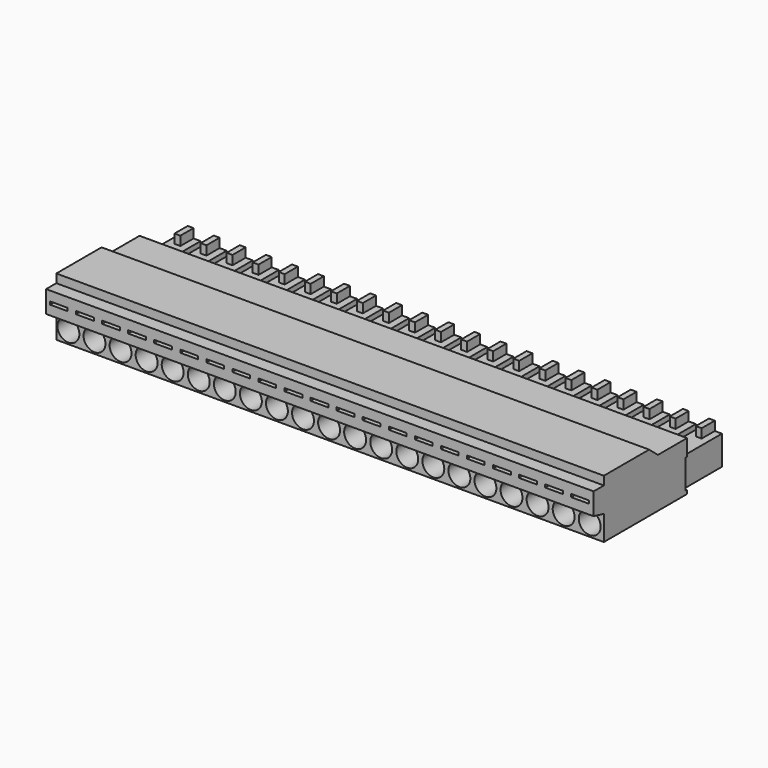
from build123d import *

# Parameters (mm, degrees)
F0_W      = 6.5
F0_H      = 4
F1_DEPTH  = 75
F2_R      = 1.5
F3_DEPTH  = 10
F4_R      = 0.5
F5_DEPTH  = 10
F6_W      = 0.82
F6_H      = 4
F6_W_2    = 0.428879
F7_DEPTH  = 6.75
F9_DEPTH  = 2.25
F10_W     = 2.429513
F10_H     = 0.406176
F11_DEPTH = 5


with BuildPart() as f1:
    # F0 (on Right) → F1 (new body)
    with BuildSketch(Plane.YZ):
        Polygon((-14.25, 0), (0, 0), (0, 0.5), (0, 4.5), (0, 6.75), (-5, 6.75), (-6.5, 8), (-14.25, 8), (-14.25, 6.825), (-16, 6.825), (-16, 3.825), (-14.25, 3.413829), align=None)
        with Locations((3.25, 2.5)):
            Rectangle(F0_W, F0_H)
    extrude(amount=F1_DEPTH)

    # F2 (on face) → F3 (cut)
    with BuildSketch(Plane.XZ.offset(14.25)):
        with Locations((1.660393, 1.706915)):
            Circle(F2_R)
        with Locations((5.230393, 1.706915)):
            Circle(F2_R)
        with Locations((8.800393, 1.706915)):
            Circle(F2_R)
        with Locations((12.370393, 1.706915)):
            Circle(F2_R)
        with Locations((15.940393, 1.706915)):
            Circle(F2_R)
        with Locations((19.510393, 1.706915)):
            Circle(F2_R)
        with Locations((23.080393, 1.706915)):
            Circle(F2_R)
        with Locations((26.650393, 1.706915)):
            Circle(F2_R)
        with Locations((30.220393, 1.706915)):
            Circle(F2_R)
        with Locations((33.790393, 1.706915)):
            Circle(F2_R)
        with Locations((37.360393, 1.706915)):
            Circle(F2_R)
        with Locations((40.930393, 1.706915)):
            Circle(F2_R)
        with Locations((44.500393, 1.706915)):
            Circle(F2_R)
        with Locations((48.070393, 1.706915)):
            Circle(F2_R)
        with Locations((51.640393, 1.706915)):
            Circle(F2_R)
        with Locations((55.210393, 1.706915)):
            Circle(F2_R)
        with Locations((58.780393, 1.706915)):
            Circle(F2_R)
        with Locations((62.350393, 1.706915)):
            Circle(F2_R)
        with Locations((65.920393, 1.706915)):
            Circle(F2_R)
        with Locations((69.490393, 1.706915)):
            Circle(F2_R)
        with Locations((73.060393, 1.706915)):
            Circle(F2_R)
    extrude(amount=-F3_DEPTH, mode=Mode.SUBTRACT)

    # F4 (on face) → F5 (cut)
    with BuildSketch(Plane(origin=(0, 6.5, 0), x_dir=(-1, 0, 0), z_dir=(0, 1, 0))):
        with Locations((-73.196121, 2.5)):
            Circle(F4_R)
        with Locations((-69.626121, 2.5)):
            Circle(F4_R)
        with Locations((-66.056121, 2.5)):
            Circle(F4_R)
        with Locations((-62.486121, 2.5)):
            Circle(F4_R)
        with Locations((-58.916121, 2.5)):
            Circle(F4_R)
        with Locations((-55.346121, 2.5)):
            Circle(F4_R)
        with Locations((-51.776121, 2.5)):
            Circle(F4_R)
        with Locations((-48.206121, 2.5)):
            Circle(F4_R)
        with Locations((-44.636121, 2.5)):
            Circle(F4_R)
        with Locations((-41.066121, 2.5)):
            Circle(F4_R)
        with Locations((-37.496121, 2.5)):
            Circle(F4_R)
        with Locations((-33.926121, 2.5)):
            Circle(F4_R)
        with Locations((-30.356121, 2.5)):
            Circle(F4_R)
        with Locations((-26.786121, 2.5)):
            Circle(F4_R)
        with Locations((-23.216121, 2.5)):
            Circle(F4_R)
        with Locations((-19.646121, 2.5)):
            Circle(F4_R)
        with Locations((-16.076121, 2.5)):
            Circle(F4_R)
        with Locations((-12.506121, 2.5)):
            Circle(F4_R)
        with Locations((-8.936121, 2.5)):
            Circle(F4_R)
        with Locations((-5.366121, 2.5)):
            Circle(F4_R)
        with Locations((-1.796121, 2.5)):
            Circle(F4_R)
    extrude(amount=-F5_DEPTH, mode=Mode.SUBTRACT)

    # F6 (on face) → F7 (cut)
    with BuildSketch(Plane(origin=(0, 6.5, 0), x_dir=(-1, 0, 0), z_dir=(0, 1, 0))):
        with Locations((-71.411121, 2.5)):
            Rectangle(F6_W, F6_H)
        with BuildLine():
            Line((-74.372925, 0.5), (-72.085269, 0.5))
            ThreePointArc((-72.085269, 0.5), (-73.229097, 0.754257), (-74.372925, 0.5))
        make_face()
        with Locations((-67.841121, 2.5)):
            Rectangle(F6_W, F6_H)
        with BuildLine():
            Line((-70.802925, 0.5), (-68.515269, 0.5))
            ThreePointArc((-68.515269, 0.5), (-69.659097, 0.754257), (-70.802925, 0.5))
        make_face()
        with Locations((-64.271121, 2.5)):
            Rectangle(F6_W, F6_H)
        with BuildLine():
            Line((-67.232925, 0.5), (-64.945269, 0.5))
            ThreePointArc((-64.945269, 0.5), (-66.089097, 0.754257), (-67.232925, 0.5))
        make_face()
        with Locations((-60.701121, 2.5)):
            Rectangle(F6_W, F6_H)
        with BuildLine():
            Line((-63.662925, 0.5), (-61.375269, 0.5))
            ThreePointArc((-61.375269, 0.5), (-62.519097, 0.754257), (-63.662925, 0.5))
        make_face()
        with Locations((-57.131121, 2.5)):
            Rectangle(F6_W, F6_H)
        with BuildLine():
            Line((-60.092925, 0.5), (-57.805269, 0.5))
            ThreePointArc((-57.805269, 0.5), (-58.949097, 0.754257), (-60.092925, 0.5))
        make_face()
        with Locations((-53.561121, 2.5)):
            Rectangle(F6_W, F6_H)
        with BuildLine():
            Line((-56.522925, 0.5), (-54.235269, 0.5))
            ThreePointArc((-54.235269, 0.5), (-55.379097, 0.754257), (-56.522925, 0.5))
        make_face()
        with Locations((-49.991121, 2.5)):
            Rectangle(F6_W, F6_H)
        with BuildLine():
            Line((-52.952925, 0.5), (-50.665269, 0.5))
            ThreePointArc((-50.665269, 0.5), (-51.809097, 0.754257), (-52.952925, 0.5))
        make_face()
        with Locations((-46.421121, 2.5)):
            Rectangle(F6_W, F6_H)
        with BuildLine():
            Line((-49.382925, 0.5), (-47.095269, 0.5))
            ThreePointArc((-47.095269, 0.5), (-48.239097, 0.754257), (-49.382925, 0.5))
        make_face()
        with Locations((-42.851121, 2.5)):
            Rectangle(F6_W, F6_H)
        with BuildLine():
            Line((-45.812925, 0.5), (-43.525269, 0.5))
            ThreePointArc((-43.525269, 0.5), (-44.669097, 0.754257), (-45.812925, 0.5))
        make_face()
        with Locations((-39.281121, 2.5)):
            Rectangle(F6_W, F6_H)
        with BuildLine():
            Line((-42.242925, 0.5), (-39.955269, 0.5))
            ThreePointArc((-39.955269, 0.5), (-41.099097, 0.754257), (-42.242925, 0.5))
        make_face()
        with Locations((-35.711121, 2.5)):
            Rectangle(F6_W, F6_H)
        with BuildLine():
            Line((-38.672925, 0.5), (-36.385269, 0.5))
            ThreePointArc((-36.385269, 0.5), (-37.529097, 0.754257), (-38.672925, 0.5))
        make_face()
        with Locations((-32.141121, 2.5)):
            Rectangle(F6_W, F6_H)
        with BuildLine():
            Line((-35.102925, 0.5), (-32.815269, 0.5))
            ThreePointArc((-32.815269, 0.5), (-33.959097, 0.754257), (-35.102925, 0.5))
        make_face()
        with Locations((-28.571121, 2.5)):
            Rectangle(F6_W, F6_H)
        with BuildLine():
            Line((-31.532925, 0.5), (-29.245269, 0.5))
            ThreePointArc((-29.245269, 0.5), (-30.389097, 0.754257), (-31.532925, 0.5))
        make_face()
        with Locations((-25.001121, 2.5)):
            Rectangle(F6_W, F6_H)
        with BuildLine():
            Line((-27.962925, 0.5), (-25.675269, 0.5))
            ThreePointArc((-25.675269, 0.5), (-26.819097, 0.754257), (-27.962925, 0.5))
        make_face()
        with Locations((-21.431121, 2.5)):
            Rectangle(F6_W, F6_H)
        with BuildLine():
            Line((-24.392925, 0.5), (-22.105269, 0.5))
            ThreePointArc((-22.105269, 0.5), (-23.249097, 0.754257), (-24.392925, 0.5))
        make_face()
        with Locations((-17.861121, 2.5)):
            Rectangle(F6_W, F6_H)
        with BuildLine():
            Line((-20.822925, 0.5), (-18.535269, 0.5))
            ThreePointArc((-18.535269, 0.5), (-19.679097, 0.754257), (-20.822925, 0.5))
        make_face()
        with Locations((-14.291121, 2.5)):
            Rectangle(F6_W, F6_H)
        with BuildLine():
            Line((-17.252925, 0.5), (-14.965269, 0.5))
            ThreePointArc((-14.965269, 0.5), (-16.109097, 0.754257), (-17.252925, 0.5))
        make_face()
        with Locations((-10.721121, 2.5)):
            Rectangle(F6_W, F6_H)
        with BuildLine():
            Line((-13.682925, 0.5), (-11.395269, 0.5))
            ThreePointArc((-11.395269, 0.5), (-12.539097, 0.754257), (-13.682925, 0.5))
        make_face()
        with Locations((-7.151121, 2.5)):
            Rectangle(F6_W, F6_H)
        with BuildLine():
            Line((-10.112925, 0.5), (-7.825269, 0.5))
            ThreePointArc((-7.825269, 0.5), (-8.969097, 0.754257), (-10.112925, 0.5))
        make_face()
        with Locations((-3.581121, 2.5)):
            Rectangle(F6_W, F6_H)
        with BuildLine():
            Line((-6.542925, 0.5), (-4.255269, 0.5))
            ThreePointArc((-4.255269, 0.5), (-5.399097, 0.754257), (-6.542925, 0.5))
        make_face()
        with Locations((-0.011121, 2.5)):
            Rectangle(F6_W, F6_H)
        with BuildLine():
            Line((-2.972925, 0.5), (-0.685269, 0.5))
            ThreePointArc((-0.685269, 0.5), (-1.829097, 0.754257), (-2.972925, 0.5))
        make_face()
        with Locations((-74.785561, 2.5)):
            Rectangle(F6_W_2, F6_H)
    extrude(amount=-F7_DEPTH, mode=Mode.SUBTRACT)

    # F8 (on face) → F9 (join)
    with BuildSketch(Plane(origin=(0, 6.5, 0), x_dir=(-1, 0, 0), z_dir=(0, 1, 0))):
        Polygon((-72.796121, 5.75), (-73.196121, 5.75), (-73.596121, 5.75), (-73.596121, 4.5), (-72.796121, 4.5), align=None)
        Polygon((-69.226121, 4.5), (-69.226121, 5.75), (-69.626121, 5.75), (-70.026121, 5.75), (-70.026121, 4.5), align=None)
        Polygon((-65.656121, 4.5), (-65.656121, 5.75), (-66.056121, 5.75), (-66.456121, 5.75), (-66.456121, 4.5), align=None)
        Polygon((-62.086121, 4.5), (-62.086121, 5.75), (-62.486121, 5.75), (-62.886121, 5.75), (-62.886121, 4.5), align=None)
        Polygon((-58.516121, 4.5), (-58.516121, 5.75), (-58.916121, 5.75), (-59.316121, 5.75), (-59.316121, 4.5), align=None)
        Polygon((-54.946121, 4.5), (-54.946121, 5.75), (-55.346121, 5.75), (-55.746121, 5.75), (-55.746121, 4.5), align=None)
        Polygon((-51.376121, 4.5), (-51.376121, 5.75), (-51.776121, 5.75), (-52.176121, 5.75), (-52.176121, 4.5), align=None)
        Polygon((-47.806121, 4.5), (-47.806121, 5.75), (-48.206121, 5.75), (-48.606121, 5.75), (-48.606121, 4.5), align=None)
        Polygon((-44.236121, 4.5), (-44.236121, 5.75), (-44.636121, 5.75), (-45.036121, 5.75), (-45.036121, 4.5), align=None)
        Polygon((-40.666121, 4.5), (-40.666121, 5.75), (-41.066121, 5.75), (-41.466121, 5.75), (-41.466121, 4.5), align=None)
        Polygon((-37.096121, 4.5), (-37.096121, 5.75), (-37.496121, 5.75), (-37.896121, 5.75), (-37.896121, 4.5), align=None)
        Polygon((-33.526121, 4.5), (-33.526121, 5.75), (-33.926121, 5.75), (-34.326121, 5.75), (-34.326121, 4.5), align=None)
        Polygon((-29.956121, 4.5), (-29.956121, 5.75), (-30.356121, 5.75), (-30.756121, 5.75), (-30.756121, 4.5), align=None)
        Polygon((-26.386121, 4.5), (-26.386121, 5.75), (-26.786121, 5.75), (-27.186121, 5.75), (-27.186121, 4.5), align=None)
        Polygon((-22.816121, 4.5), (-22.816121, 5.75), (-23.216121, 5.75), (-23.616121, 5.75), (-23.616121, 4.5), align=None)
        Polygon((-19.246121, 4.5), (-19.246121, 5.75), (-19.646121, 5.75), (-20.046121, 5.75), (-20.046121, 4.5), align=None)
        Polygon((-15.676121, 4.5), (-15.676121, 5.75), (-16.076121, 5.75), (-16.476121, 5.75), (-16.476121, 4.5), align=None)
        Polygon((-12.106121, 4.5), (-12.106121, 5.75), (-12.506121, 5.75), (-12.906121, 5.75), (-12.906121, 4.5), align=None)
        Polygon((-8.536121, 4.5), (-8.536121, 5.75), (-8.936121, 5.75), (-9.336121, 5.75), (-9.336121, 4.5), align=None)
        Polygon((-4.966121, 4.5), (-4.966121, 5.75), (-5.366121, 5.75), (-5.766121, 5.75), (-5.766121, 4.5), align=None)
        Polygon((-1.396121, 4.5), (-1.396121, 5.75), (-1.796121, 5.75), (-2.196121, 5.75), (-2.196121, 4.5), align=None)
    extrude(amount=-F9_DEPTH)

    # F10 (on face) → F11 (cut)
    with BuildSketch(Plane.XZ.offset(16)):
        with Locations((1.747665, 5.325)):
            Rectangle(F10_W, F10_H)
        with Locations((5.317665, 5.325)):
            Rectangle(F10_W, F10_H)
        with Locations((8.887665, 5.325)):
            Rectangle(F10_W, F10_H)
        with Locations((12.457665, 5.325)):
            Rectangle(F10_W, F10_H)
        with Locations((16.027665, 5.325)):
            Rectangle(F10_W, F10_H)
        with Locations((19.597665, 5.325)):
            Rectangle(F10_W, F10_H)
        with Locations((23.167665, 5.325)):
            Rectangle(F10_W, F10_H)
        with Locations((26.737665, 5.325)):
            Rectangle(F10_W, F10_H)
        with Locations((30.307665, 5.325)):
            Rectangle(F10_W, F10_H)
        with Locations((33.877665, 5.325)):
            Rectangle(F10_W, F10_H)
        with Locations((37.447665, 5.325)):
            Rectangle(F10_W, F10_H)
        with Locations((41.017665, 5.325)):
            Rectangle(F10_W, F10_H)
        with Locations((44.587665, 5.325)):
            Rectangle(F10_W, F10_H)
        with Locations((48.157666, 5.325)):
            Rectangle(F10_W, F10_H)
        with Locations((51.727666, 5.325)):
            Rectangle(F10_W, F10_H)
        with Locations((55.297666, 5.325)):
            Rectangle(F10_W, F10_H)
        with Locations((58.867665, 5.325)):
            Rectangle(F10_W, F10_H)
        with Locations((62.437665, 5.325)):
            Rectangle(F10_W, F10_H)
        with Locations((66.007666, 5.325)):
            Rectangle(F10_W, F10_H)
        with Locations((69.577665, 5.325)):
            Rectangle(F10_W, F10_H)
        with Locations((73.147665, 5.325)):
            Rectangle(F10_W, F10_H)
    extrude(amount=-F11_DEPTH, mode=Mode.SUBTRACT)


solid = f1.part
